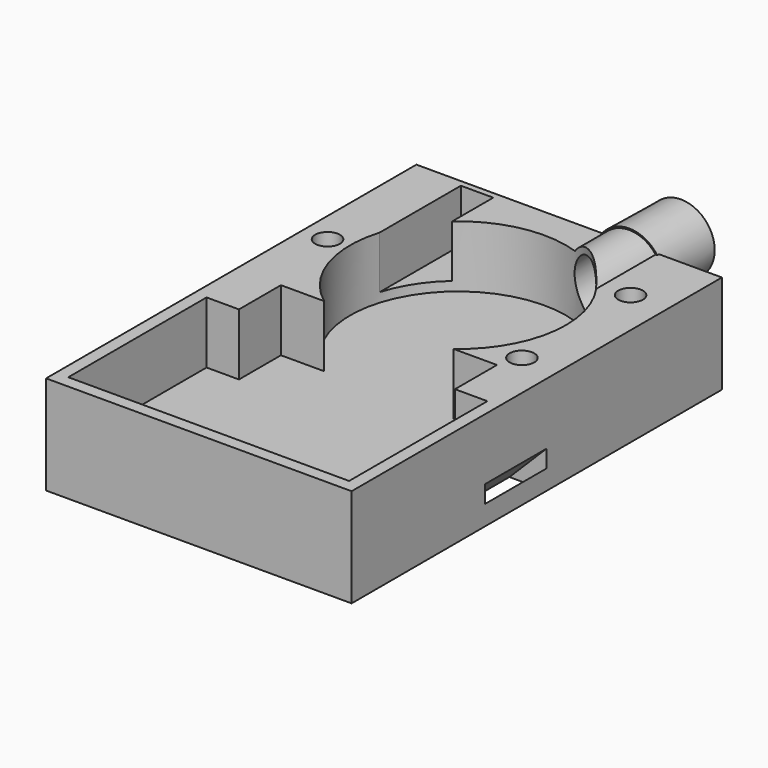
from build123d import *

# Parameters (mm, degrees)
BOX006_W               = 25
BOX006_H               = 40
BOX006_DEPTH           = 4
BOX006_ROLL_ANGLE      = 45
BOX006_PLACEMENT_ANGLE = 90
BOX005_W               = 25
BOX005_H               = 40
BOX005_DEPTH           = 4
BOX005_ROLL_ANGLE      = 45
BOX005_PLACEMENT_ANGLE = 90
CYLINDER014_R          = 4
CYLINDER014_DEPTH      = 20
CYLINDER015_R          = 4
CYLINDER015_DEPTH      = 20
CYLINDER016_R          = 4
CYLINDER016_DEPTH      = 20
CYLINDER011_R          = 2
CYLINDER011_DEPTH      = 30
CYLINDER012_R          = 2
CYLINDER012_DEPTH      = 30
CYLINDER013_R          = 2
CYLINDER013_DEPTH      = 30
CYLINDER009_R          = 4
CYLINDER009_DEPTH      = 10
CYLINDER010_R          = 4
CYLINDER010_DEPTH      = 10
CYLINDER008_R          = 4
CYLINDER008_DEPTH      = 10
BOX001_W               = 70
BOX001_H               = 20
BOX001_DEPTH           = 20
BOX_W                  = 91
BOX_H                  = 56
BOX_DEPTH              = 20
BOX002_W               = 10.5
BOX002_H               = 35
BOX002_DEPTH           = 17
CYLINDER006_R          = 3.65
CYLINDER006_DEPTH      = 10
BOX003_W               = 75
BOX003_H               = 150
BOX003_DEPTH           = 25
FILLET_R               = 5
FILLET001_R            = 5
FILLET002_R            = 5
FILLET003_R            = 5
FILLET004_R            = 5
FILLET005_R            = 5
CYLINDER003_R          = 8.75
CYLINDER003_DEPTH      = 40
CYLINDER002_R          = 2
CYLINDER002_DEPTH      = 10
ARRAY_COUNT            = 3
CYLINDER001_R          = 2.25
CYLINDER001_DEPTH      = 5
CYLINDER_R             = 35
CYLINDER_DEPTH         = 18
CYLINDER004_R          = 35
CYLINDER004_DEPTH      = 25
CYLINDER005_R          = 8.75
CYLINDER005_DEPTH      = 40
CYLINDER007_R          = 10.75
CYLINDER007_DEPTH      = 40
BOX004_W               = 99
BOX004_H               = 150
BOX004_DEPTH           = 32


with BuildPart() as slot2:
    # Box006 → Box006 (new body)
    with BuildSketch(Plane.XY):
        with Locations((12.5, 20)):
            Rectangle(BOX006_W, BOX006_H)
    extrude(amount=BOX006_DEPTH)


with BuildPart() as slot2_1:
    # Box006 roll: moved
    add(slot2.part.rotate(Axis((0, 0, 0), (1, 0, 0)), BOX006_ROLL_ANGLE))


with BuildPart() as slot2_2:
    # Box006 placement: moved
    add(slot2_1.part.moved(Location((-37.422836, -44, -17.67767))).rotate(Axis((-37.422836, -44, -17.67767), (0, 0, 1)), BOX006_PLACEMENT_ANGLE))


with BuildPart() as part_mirroring:
    # Part__Mirroring: instance of Slot2
    add(slot2_2.part.mirror(Plane(origin=(0, 0, 0), x_dir=(0, -1, 0), z_dir=(1, 0, 0))))


with BuildPart() as part_mirroring_1:
    # Part__Mirroring placement: moved
    add(part_mirroring.part.moved(Location((0, -7, 0))))


with BuildPart() as strapslots:
    # Box005 → Box005 (new body)
    with BuildSketch(Plane.XY):
        with Locations((12.5, 20)):
            Rectangle(BOX005_W, BOX005_H)
    extrude(amount=BOX005_DEPTH)


with BuildPart() as strapslots_1:
    # Box005 roll: moved
    add(strapslots.part.rotate(Axis((0, 0, 0), (1, 0, 0)), BOX005_ROLL_ANGLE))


with BuildPart() as strapslots_2:
    # Box005 placement: moved
    add(strapslots_1.part.moved(Location((-37.422836, -51, -17.67767))).rotate(Axis((-37.422836, -51, -17.67767), (0, 0, 1)), BOX005_PLACEMENT_ANGLE))

    # Fusion011: union Part__Mirroring
    add(part_mirroring_1.part)


with BuildPart() as cylinder009:
    # Cylinder014 → Cylinder014 (new body)
    with BuildSketch(Plane(origin=(37.5, -21, 10), x_dir=(1, 0, 0), z_dir=(0, 0, 1))):
        Circle(CYLINDER014_R)
    extrude(amount=CYLINDER014_DEPTH)


with BuildPart() as cylinder010:
    # Cylinder015 → Cylinder015 (new body)
    with BuildSketch(Plane(origin=(37.5, 23, 10), x_dir=(1, 0, 0), z_dir=(0, 0, 1))):
        Circle(CYLINDER015_R)
    extrude(amount=CYLINDER015_DEPTH)


with BuildPart() as mounting002:
    # Cylinder016 → Cylinder016 (new body)
    with BuildSketch(Plane(origin=(-41.5, -1, 10), x_dir=(1, 0, 0), z_dir=(0, 0, 1))):
        Circle(CYLINDER016_R)
    extrude(amount=CYLINDER016_DEPTH)

    # Fusion008: union Cylinder009, Cylinder010
    add(cylinder009.part)
    add(cylinder010.part)


with BuildPart() as mounting002_1:
    # Fusion008 placement: moved
    add(mounting002.part.moved(Location((0, 0, -30))))


with BuildPart() as cylinder006:
    # Cylinder011 → Cylinder011 (new body)
    with BuildSketch(Plane(origin=(37.5, -21, 10), x_dir=(1, 0, 0), z_dir=(0, 0, 1))):
        Circle(CYLINDER011_R)
    extrude(amount=CYLINDER011_DEPTH)


with BuildPart() as cylinder007:
    # Cylinder012 → Cylinder012 (new body)
    with BuildSketch(Plane(origin=(37.5, 23, 10), x_dir=(1, 0, 0), z_dir=(0, 0, 1))):
        Circle(CYLINDER012_R)
    extrude(amount=CYLINDER012_DEPTH)


with BuildPart() as bottommounting:
    # Cylinder013 → Cylinder013 (new body)
    with BuildSketch(Plane(origin=(-41.5, -1, 10), x_dir=(1, 0, 0), z_dir=(0, 0, 1))):
        Circle(CYLINDER013_R)
    extrude(amount=CYLINDER013_DEPTH)

    # Fusion007: union Cylinder006, Cylinder007
    add(cylinder006.part)
    add(cylinder007.part)


with BuildPart() as bottommounting_1:
    # Fusion007 placement: moved
    add(bottommounting.part.moved(Location((0, 0, -30))))

    # Fusion009: union Mounting002
    add(mounting002_1.part)


with BuildPart() as cylinder004:
    # Cylinder009 → Cylinder009 (new body)
    with BuildSketch(Plane(origin=(37.5, -21, 10), x_dir=(1, 0, 0), z_dir=(0, 0, 1))):
        Circle(CYLINDER009_R)
    extrude(amount=CYLINDER009_DEPTH)


with BuildPart() as cylinder005:
    # Cylinder010 → Cylinder010 (new body)
    with BuildSketch(Plane(origin=(37.5, 23, 10), x_dir=(1, 0, 0), z_dir=(0, 0, 1))):
        Circle(CYLINDER010_R)
    extrude(amount=CYLINDER010_DEPTH)


with BuildPart() as combinedmounting:
    # Cylinder008 → Cylinder008 (new body)
    with BuildSketch(Plane(origin=(-41.5, -1, 10), x_dir=(1, 0, 0), z_dir=(0, 0, 1))):
        Circle(CYLINDER008_R)
    extrude(amount=CYLINDER008_DEPTH)

    # Fusion006: union Cylinder004, Cylinder005
    add(cylinder004.part)
    add(cylinder005.part)

    # Fusion010: union BottomMounting
    add(bottommounting_1.part)


with BuildPart() as wiringpocket:
    # Box001 → Box001 (new body)
    with BuildSketch(Plane(origin=(-35, -53, 0), x_dir=(1, 0, 0), z_dir=(0, 0, 1))):
        with Locations((35, 10)):
            Rectangle(BOX001_W, BOX001_H)
    extrude(amount=BOX001_DEPTH)


with BuildPart() as electronicspocket:
    # Box → Box (new body)
    with BuildSketch(Plane(origin=(-45.5, -106, 0), x_dir=(1, 0, 0), z_dir=(0, 0, 1))):
        with Locations((45.5, 28)):
            Rectangle(BOX_W, BOX_H)
    extrude(amount=BOX_DEPTH)

    # Fusion: union WiringPocket
    add(wiringpocket.part)


with BuildPart() as electronicspocket_1:
    # Fusion placement: moved
    add(electronicspocket.part.moved(Location((0, 5, 0))))


with BuildPart() as potentiometer:
    # Box002 → Box002 (new body)
    with BuildSketch(Plane(origin=(-30, 18, 5.5), x_dir=(1, 0, 0), z_dir=(0, 0, 1))):
        with Locations((5.25, 17.5)):
            Rectangle(BOX002_W, BOX002_H)
    extrude(amount=BOX002_DEPTH)


with BuildPart() as potpocket:
    # Cylinder006 → Cylinder006 (new body)
    with BuildSketch(Plane(origin=(-24.75, 60.5, 11), x_dir=(1, 0, 0), z_dir=(0, -1, 0))):
        Circle(CYLINDER006_R)
    extrude(amount=CYLINDER006_DEPTH)

    # Fusion001: union Potentiometer
    add(potentiometer.part)


with BuildPart() as potpocket_1:
    # Fusion001 placement: moved
    add(potpocket.part.moved(Location((-3.5, -10, -2.5))))


with BuildPart() as batterypocket:
    # Box003 → Box003 (new body)
    with BuildSketch(Plane(origin=(-37.5, -101, -29), x_dir=(1, 0, 0), z_dir=(0, 0, 1))):
        with Locations((37.5, 75)):
            Rectangle(BOX003_W, BOX003_H)
    extrude(amount=BOX003_DEPTH)

    # Fillet
    fillet_edges = [batterypocket.edges().sort_by_distance(p)[0] for p in [
        (-37.5, -26, -4),
    ]]
    fillet(fillet_edges, radius=FILLET_R)

    # Fillet001
    fillet001_edges = [batterypocket.edges().sort_by_distance(p)[0] for p in [
        (-37.5, -26, -29),
    ]]
    fillet(fillet001_edges, radius=FILLET001_R)

    # Fillet002
    fillet002_edges = [batterypocket.edges().sort_by_distance(p)[0] for p in [
        (37.5, -26, -29),
    ]]
    fillet(fillet002_edges, radius=FILLET002_R)

    # Fillet003
    fillet003_edges = [batterypocket.edges().sort_by_distance(p)[0] for p in [
        (37.5, -26, -4),
    ]]
    fillet(fillet003_edges, radius=FILLET003_R)

    # Fillet004
    fillet004_edges = [batterypocket.edges().sort_by_distance(p)[0] for p in [
        (0, 49, -29),
    ]]
    fillet(fillet004_edges, radius=FILLET004_R)

    # Fillet005
    fillet005_edges = [batterypocket.edges().sort_by_distance(p)[0] for p in [
        (37.5, -101, -16.5),
        (0, -101, -4),
        (0, -101, -29),
        (-37.5, -101, -16.5),
    ]]
    fillet(fillet005_edges, radius=FILLET005_R)


with BuildPart() as obj1:
    # Cone → Cone (revolve)
    with BuildSketch(Plane(origin=(0, 0, 22.5), x_dir=(1, 0, 0), z_dir=(0, -1, 0))):
        Polygon((0, 0), (27.25, 0), (27.15, 13), (0, 13), align=None)
    revolve(axis=Axis((0, 0, 22.5), (0, 0, 1)))


with BuildPart() as bloweroutlet:
    # Cylinder003 → Cylinder003 (new body)
    with BuildSketch(Plane(origin=(20, 36.3, 13.5), x_dir=(1, 0, 0), z_dir=(0, -1, 0))):
        Circle(CYLINDER003_R)
    extrude(amount=CYLINDER003_DEPTH)


with BuildPart() as blowerfeet:
    # Cylinder002 → Cylinder002 (new body)
    with BuildSketch(Plane(origin=(0, -28.4, 0), x_dir=(1, 0, 0), z_dir=(0, 0, 1))):
        Circle(CYLINDER002_R)
    extrude(amount=CYLINDER002_DEPTH)

    # Array: BlowerFeet ×3 about axis
    array_axis = Axis((0, 0, 0), (0, 0, 1))


with BuildPart() as blowerfeet_1:
    add(blowerfeet.part)
    for i in range(1, ARRAY_COUNT):
        add(blowerfeet.part.rotate(array_axis, i * 360 / ARRAY_COUNT))


with BuildPart() as blowerendbearing:
    # Cylinder001 → Cylinder001 (new body)
    with BuildSketch(Plane.XY.offset(1)):
        Circle(CYLINDER001_R)
    extrude(amount=CYLINDER001_DEPTH)


with BuildPart() as blowerbody:
    # Cylinder → Cylinder (new body)
    with BuildSketch(Plane.XY.offset(4.5)):
        Circle(CYLINDER_R)
    extrude(amount=CYLINDER_DEPTH)


with BuildPart() as blowerpocket:
    # Cylinder004 → Cylinder004 (new body)
    with BuildSketch(Plane.XY):
        Circle(CYLINDER004_R)
    extrude(amount=CYLINDER004_DEPTH)

    # Fusion003: union obj1, BlowerOutlet, BlowerFeet, BlowerEndbearing, BlowerBody
    add(obj1.part)
    add(bloweroutlet.part)
    add(blowerfeet_1.part)
    add(blowerendbearing.part)
    add(blowerbody.part)


with BuildPart() as combinedpocket:
    # Cylinder005 → Cylinder005 (new body)
    with BuildSketch(Plane(origin=(20, 65.3, 13.5), x_dir=(1, 0, 0), z_dir=(0, -1, 0))):
        Circle(CYLINDER005_R)
    extrude(amount=CYLINDER005_DEPTH)

    # Fusion004: union ElectronicsPocket, PotPocket, BatteryPocket, BlowerPocket
    add(electronicspocket_1.part)
    add(potpocket_1.part)
    add(batterypocket.part)
    add(blowerpocket.part)


with BuildPart() as housingoutlet:
    # Cylinder007 → Cylinder007 (new body)
    with BuildSketch(Plane(origin=(20, 59.3, 13.5), x_dir=(1, 0, 0), z_dir=(0, -1, 0))):
        Circle(CYLINDER007_R)
    extrude(amount=CYLINDER007_DEPTH)


with BuildPart() as housingblock:
    # Box004 → Box004 (new body)
    with BuildSketch(Plane(origin=(-49.5, -105, -12), x_dir=(1, 0, 0), z_dir=(0, 0, 1))):
        with Locations((49.5, 75)):
            Rectangle(BOX004_W, BOX004_H)
    extrude(amount=BOX004_DEPTH)


with BuildPart() as obj2:
    # Cone001 → Cone001 (revolve)
    with BuildSketch(Plane(origin=(20, 65.3, 13.5), x_dir=(-1, 0, 0), z_dir=(0, 0, 1))):
        Polygon((0, 0), (10.92, 0), (11.19, 21), (0, 21), align=None)
    revolve(axis=Axis((20, 65.3, 13.5), (0, -1, 0)))

    # Fusion005: union HousingOutlet, HousingBlock
    add(housingoutlet.part)
    add(housingblock.part)

    # Cut: cut CombinedPocket
    add(combinedpocket.part, mode=Mode.SUBTRACT)

    # Cut001: cut CombinedMounting
    add(combinedmounting.part, mode=Mode.SUBTRACT)

    # Cut002: cut StrapSlots
    add(strapslots_2.part, mode=Mode.SUBTRACT)


solid = obj2.part
